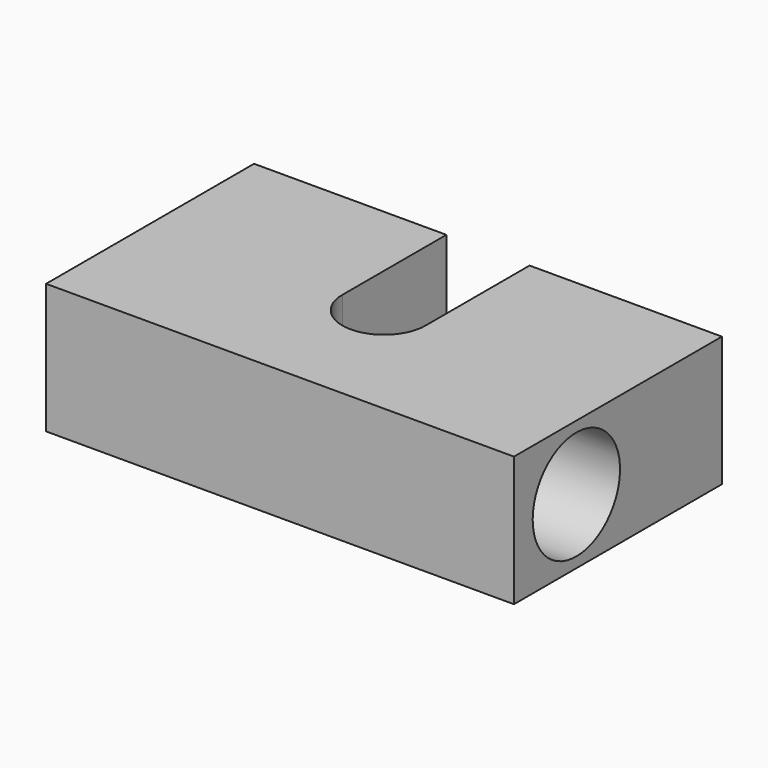
from build123d import *

# Parameters (mm, degrees)
F1_DEPTH = 25
F2_R     = 10.5
F3_DEPTH = 90.001
F4_R     = 6
F5_DEPTH = 20


with BuildPart() as f1:
    # F0 (on Top) → F1 (new body)
    with BuildSketch(Plane.XY):
        with BuildLine():
            Line((0, 50), (0, 0))
            Line((0, 0), (90, 0))
            Line((90, 0), (90, 50))
            Line((90, 50), (53, 50))
            Line((53, 50), (53, 25))
            ThreePointArc((53, 25), (45, 17), (37, 25))
            Line((37, 25), (37, 50))
            Line((37, 50), (0, 50))
        make_face()
    extrude(amount=F1_DEPTH)

    # F2 (on face) → F3 (cut, through all)
    with BuildSketch(Plane(origin=(0, 0, 0), x_dir=(0, -1, 0), z_dir=(-1, 0, 0))):
        with Locations((-15, 12.5)):
            Circle(F2_R)
    extrude(amount=-F3_DEPTH, mode=Mode.SUBTRACT)

    # F4 (on face) → F5 (cut)
    with BuildSketch(Plane(origin=(0, 50, 0), x_dir=(-1, 0, 0), z_dir=(0, 1, 0))):
        with Locations((-48.5, 12.5)):
            Circle(F4_R)
        with Locations((11.5, 12.5)):
            Circle(F4_R)
    extrude(amount=-F5_DEPTH, mode=Mode.SUBTRACT)


solid = f1.part
